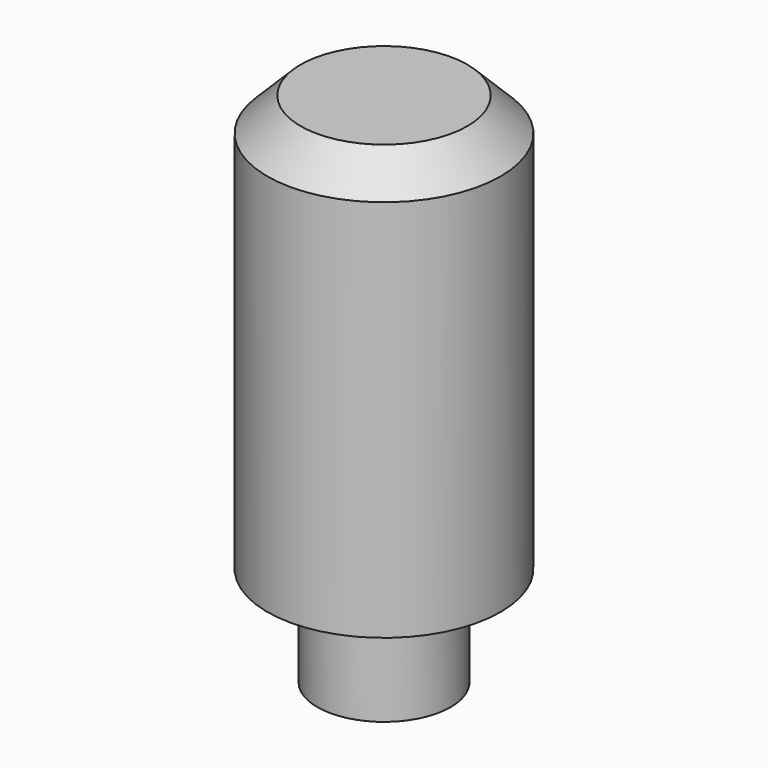
from build123d import *

# Parameters (mm, degrees)
F0_R     = 4
F1_DEPTH = 6
F2_R     = 7
F2_R_2   = 4
F3_DEPTH = 25
F4_SIZE  = 2


with BuildPart() as f1:
    # F0 (on Top) → F1 (new body)
    with BuildSketch(Plane.XY):
        Circle(F0_R)
    extrude(amount=F1_DEPTH)

    # F2 (on face) → F3 (join)
    with BuildSketch(Plane.XY.offset(6)):
        Circle(F2_R)
        Circle(F2_R_2, mode=Mode.SUBTRACT)
        Circle(F2_R_2)
    extrude(amount=F3_DEPTH)

    # F4
    f4_edges = [f1.edges().sort_by_distance(p)[0] for p in [
        (-7, 0, 31),
    ]]
    chamfer(f4_edges, length=F4_SIZE)


solid = f1.part
